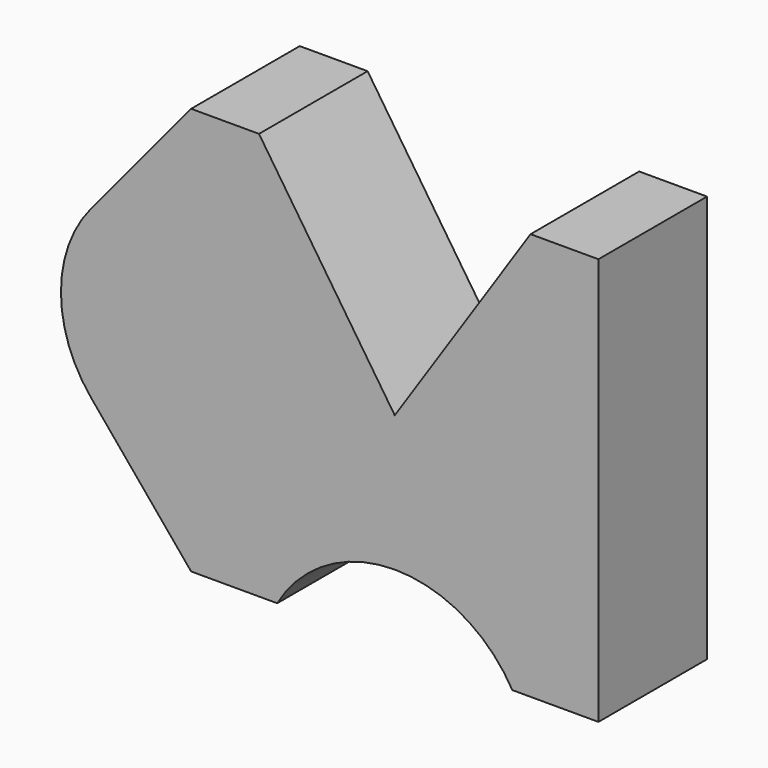
from build123d import *

# Parameters (mm, degrees)
F1_DEPTH = 508


with BuildPart() as f1:
    # F0 (on Front) → F1 (new body)
    with BuildSketch(Plane.XZ):
        with BuildLine():
            Line((508, 762), (0, 0))
            Line((0, 0), (-508, 762))
            Line((-508, 762), (-762, 762))
            Line((-762, 762), (-1136.556991, 311.228513))
            ThreePointArc((-1136.556991, 311.228513), (-1248.986783, 0), (-1136.556991, -311.228513))
            Line((-1136.556991, -311.228513), (-762, -762))
            Line((-762, -762), (-439.940905, -762))
            ThreePointArc((-439.940905, -762), (0, -508), (439.940905, -762))
            Line((439.940905, -762), (762, -762))
            Line((762, -762), (762, 762))
            Line((762, 762), (508, 762))
        make_face()
    extrude(amount=-F1_DEPTH)


solid = f1.part
